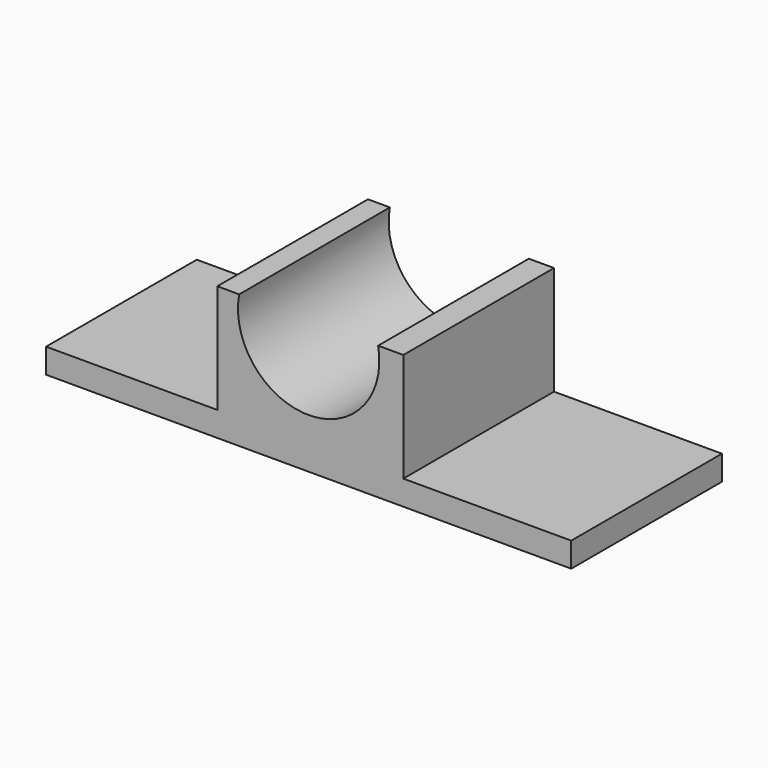
from build123d import *

# Parameters (mm, degrees)
F1_DEPTH = 136.652
F2_DEPTH = 136.653
F0_W     = 124.218264
F0_H     = 78.966799
F0_W_2   = 121.818223
F3_DEPTH = 136.653


with BuildPart() as f1:
    # F0 (on Front) → F1 (new body)
    with BuildSketch(Plane.XZ):
        with BuildLine():
            Line((68.681777, -30.518653), (68.681777, 48.448146))
            Line((68.681777, 48.448146), (50.39659, 48.448146))
            ThreePointArc((50.39659, 48.448146), (0, -12.265111), (-50.39659, 48.448146))
            Line((-50.39659, 48.448146), (-66.281736, 48.448146))
            Line((-66.281736, 48.448146), (-66.281736, -30.518653))
            Line((-66.281736, -30.518653), (-190.5, -30.518653))
            Line((-190.5, -30.518653), (-190.5, -48.448146))
            Line((-190.5, -48.448146), (190.5, -48.448146))
            Line((190.5, -48.448146), (190.5, -30.518653))
            Line((190.5, -30.518653), (68.681777, -30.518653))
        make_face()
        with BuildLine():
            ThreePointArc((-50.39659, 48.448146), (0, -12.265111), (50.39659, 48.448146))
            Line((50.39659, 48.448146), (-50.39659, 48.448146))
        make_face()
    extrude(amount=-F1_DEPTH)

    # F0 (on Front) → F2 (cut, through all)
    with BuildSketch(Plane.XZ):
        with BuildLine():
            ThreePointArc((-50.39659, 48.448146), (0, -12.265111), (50.39659, 48.448146))
            Line((50.39659, 48.448146), (-50.39659, 48.448146))
        make_face()
    extrude(amount=-F2_DEPTH, mode=Mode.SUBTRACT)

    # F0 (on Front) → F3 (cut, through all)
    with BuildSketch(Plane.XZ):
        with Locations((-128.390868, 8.964747)):
            Rectangle(F0_W, F0_H)
        with Locations((129.590889, 8.964747)):
            Rectangle(F0_W_2, F0_H)
    extrude(amount=-F3_DEPTH, mode=Mode.SUBTRACT)


solid = f1.part
